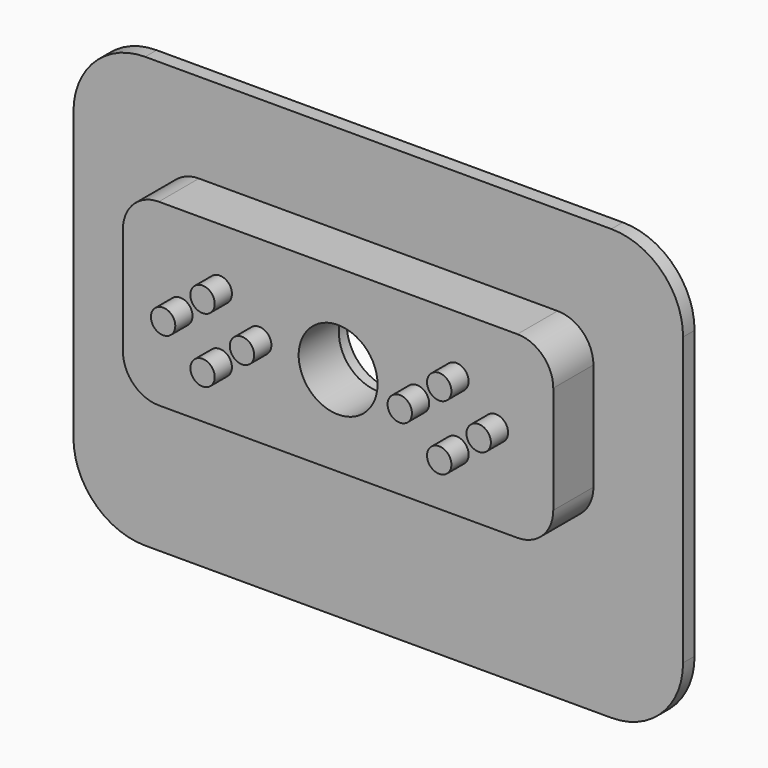
from build123d import *

# Parameters (mm, degrees)
F0_W     = 85
F0_H     = 60
F0_R     = 6
F1_DEPTH = 2
F2_W     = 60
F2_H     = 25
F2_R     = 5.5
F3_DEPTH = 7
F4_R     = 5
F5_R     = 10
F6_R     = 1.7
F7_DEPTH = 3


with BuildPart() as f1:
    # F0 (on Front) → F1 (new body)
    with BuildSketch(Plane.XZ):
        with Locations((0, -5)):
            Rectangle(F0_W, F0_H)
        Circle(F0_R, mode=Mode.SUBTRACT)
    extrude(amount=F1_DEPTH)

    # F2 (on face) → F3 (join)
    with BuildSketch(Plane.XZ.offset(2)):
        Rectangle(F2_W, F2_H)
        Circle(F2_R, mode=Mode.SUBTRACT)
    extrude(amount=F3_DEPTH)

    # F4
    f4_edges = [f1.edges().sort_by_distance(p)[0] for p in [
        (30, -5.5, 12.5),
        (30, -5.5, -12.5),
        (-30, -5.5, -12.5),
        (-30, -5.5, 12.5),
    ]]
    fillet(f4_edges, radius=F4_R)

    # F5
    f5_edges = [f1.edges().sort_by_distance(p)[0] for p in [
        (42.5, -1, 25),
        (42.5, -1, -35),
        (-42.5, -1, -35),
        (-42.5, -1, 25),
    ]]
    fillet(f5_edges, radius=F5_R)

    # F6 (on face) → F7 (join)
    with BuildSketch(Plane.XZ.offset(9)):
        with Locations((-11, 0)):
            Circle(F6_R)
        with Locations((-22, 0)):
            Circle(F6_R)
        with Locations((11, 0)):
            Circle(F6_R)
        with Locations((22, 0)):
            Circle(F6_R)
        with Locations((-16.5, -4.5)):
            Circle(F6_R)
        with Locations((16.5, -4.5)):
            Circle(F6_R)
        with Locations((16.5, 4.5)):
            Circle(F6_R)
        with Locations((-16.5, 4.5)):
            Circle(F6_R)
    extrude(amount=F7_DEPTH)


solid = f1.part
